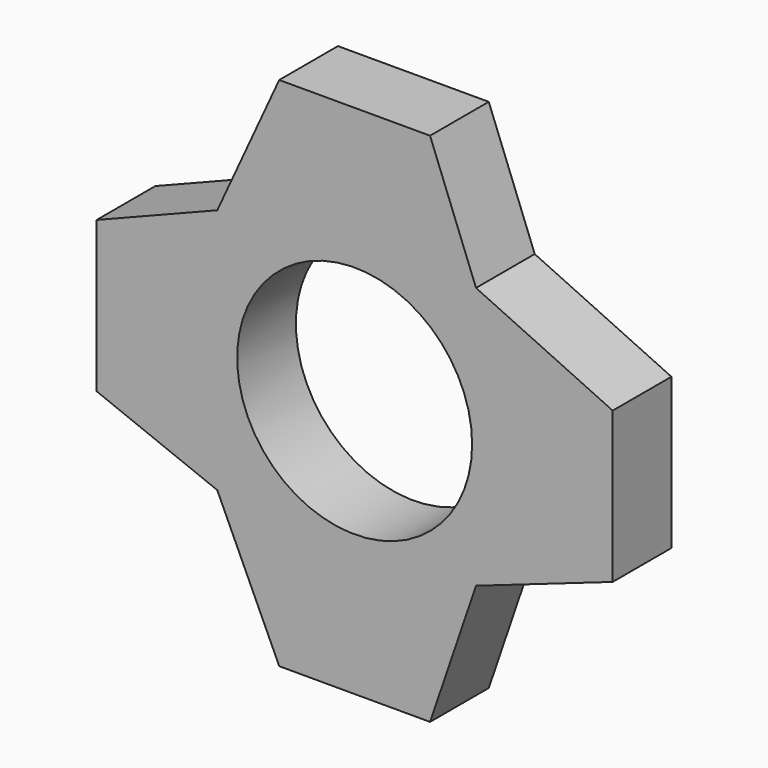
from build123d import *

# Parameters (mm, degrees)
F0_R     = 11.0998
F1_DEPTH = 6.9342


with BuildPart() as f1:
    # F0 (on Front) → F1 (new body)
    with BuildSketch(Plane.XZ):
        Polygon((7.125813, 24.379967), (-7.125813, 24.379967), (-12.977696, 11.640459), (-24.379967, 7.125813), (-24.379967, -7.125813), (-12.977696, -11.640459), (-7.125813, -24.379967), (7.125813, -24.379967), (11.467626, -11.640459), (24.379967, -7.125813), (24.379967, 7.125813), (11.467626, 13.130667), align=None)
        Circle(F0_R, mode=Mode.SUBTRACT)
    extrude(amount=-F1_DEPTH)


solid = f1.part
